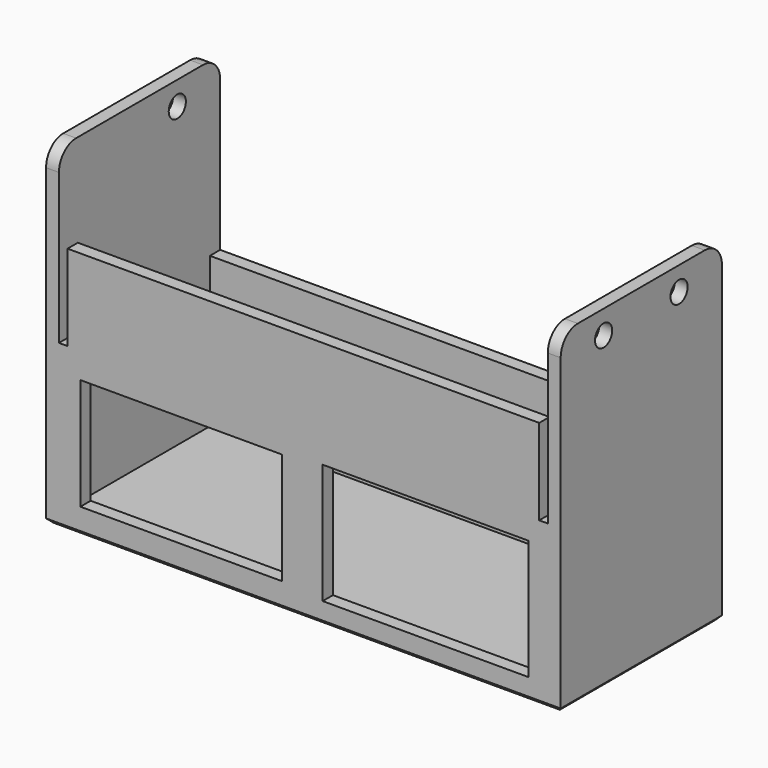
from build123d import *

# Parameters (mm, degrees)
F2_R      = 2.5
F3_DEPTH  = 3
F4_W      = 3
F4_H      = 3
F4_W_2    = 41
F4_H_2    = 35
F5_DEPTH  = 114
F6_R      = 2.5
F7_DEPTH  = 3
F8_W      = 110
F8_H      = 20
F9_DEPTH  = 3
F10_W     = 47
F10_H     = 26
F10_W_2   = 48
F10_H_2   = 28
F11_DEPTH = 3
F13_DEPTH = 3
F14_SIZE  = 1


with BuildPart() as f3:
    # F2 (on Right) → F3 (new body)
    with BuildSketch(Plane.YZ):
        with BuildLine():
            ThreePointArc((22.5, 35), (21.0355339059, 38.5355339059), (17.5, 40))
            Line((17.5, 40), (-19.5, 40))
            ThreePointArc((-19.5, 40), (-23.0355339059, 38.5355339059), (-24.5, 35))
            Line((-24.5, 35), (-24.5, -38))
            Line((-24.5, -38), (22.5, -38))
            Line((22.5, -38), (22.5, 35))
        make_face()
        with Locations((-12, 34.5)):
            Circle(F2_R, mode=Mode.SUBTRACT)
        with Locations((10, 34.5)):
            Circle(F2_R, mode=Mode.SUBTRACT)
    extrude(amount=F3_DEPTH)

    # F4 (on Right) → F5 (join)
    with BuildSketch(Plane.YZ):
        with Locations((21, -36.5)):
            Rectangle(F4_W, F4_H)
        with Locations((-1, -36.5)):
            Rectangle(F4_W_2, F4_H)
        with Locations((21, -17.5)):
            Rectangle(F4_W, F4_H_2)
        with Locations((-23, -36.5)):
            Rectangle(F4_W, F4_H)
        with Locations((-23, -17.5)):
            Rectangle(F4_W, F4_H_2)
    extrude(amount=-F5_DEPTH)

    # F6 (on face) → F7 (join)
    with BuildSketch(Plane(origin=(-114, 0, 0), x_dir=(0, -1, 0), z_dir=(-1, 0, 0))):
        with BuildLine():
            ThreePointArc((24.5, 35), (23.0355339059, 38.5355339059), (19.5, 40))
            Line((19.5, 40), (-17.5, 40))
            ThreePointArc((-17.5, 40), (-21.0355339059, 38.5355339059), (-22.5, 35))
            Line((-22.5, 35), (-22.5, -38))
            Line((-22.5, -38), (24.5, -38))
            Line((24.5, -38), (24.5, 35))
        make_face()
        with Locations((-10, 34.5)):
            Circle(F6_R, mode=Mode.SUBTRACT)
    extrude(amount=F7_DEPTH)

    # F8 (on face) → F9 (join)
    with BuildSketch(Plane.XZ.offset(24.5)):
        with Locations((-57, 10)):
            Rectangle(F8_W, F8_H)
    extrude(amount=-F9_DEPTH)

    # F10 (on face) → F11 (cut, through all)
    with BuildSketch(Plane.XZ.offset(24.5)):
        with Locations((-85.5, -19)):
            Rectangle(F10_W, F10_H)
        with Locations((-28.5, -19)):
            Rectangle(F10_W_2, F10_H_2)
    extrude(amount=-F11_DEPTH, mode=Mode.SUBTRACT)

    # F12 (on face) → F13 (cut, through all)
    with BuildSketch(Plane(origin=(0, 22.5, 0), x_dir=(-1, 0, 0), z_dir=(0, 1, 0))):
        with BuildLine():
            ThreePointArc((85, -26), (85.5857864376, -27.4142135624), (87, -28))
            Line((87, -28), (95, -28))
            ThreePointArc((95, -28), (96.4142135624, -27.4142135624), (97, -26))
            Line((97, -26), (97, -24))
            ThreePointArc((97, -24), (96.4142135624, -22.5857864376), (95, -22))
            Line((95, -22), (87, -22))
            ThreePointArc((87, -22), (85.5857864376, -22.5857864376), (85, -24))
            Line((85, -24), (85, -26))
        make_face()
    extrude(amount=-F13_DEPTH, mode=Mode.SUBTRACT)

    # F14
    f14_edges = [f3.edges().sort_by_distance(p)[0] for p in [
        (-57, -24.5, -38),
        (3, -1, -38),
        (-57, 22.5, -38),
        (-117, -1, -38),
    ]]
    chamfer(f14_edges, length=F14_SIZE)


solid = f3.part
